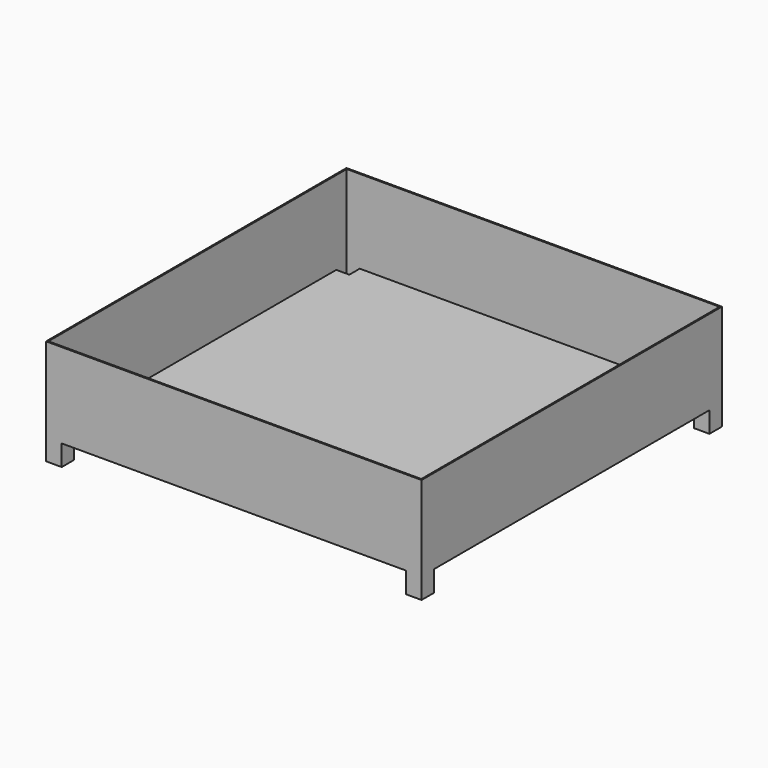
from build123d import *

# Parameters (mm, degrees)
F0_W     = 914.4
F0_H     = 914.4
F1_DEPTH = 3.175
F2_W     = 914.4
F2_H     = 914.4
F2_W_2   = 908.05
F2_H_2   = 908.05
F3_DEPTH = 203.2
F4_W     = 38.1
F4_H     = 38.1
F5_DEPTH = 50.8
F6_T     = -3.175


with BuildPart() as f1:
    # F0 (on Top) → F1 (new body)
    with BuildSketch(Plane.XY):
        Rectangle(F0_W, F0_H)
    extrude(amount=F1_DEPTH)

    # F2 (on face) → F3 (join)
    with BuildSketch(Plane.XY.offset(3.175)):
        Rectangle(F2_W, F2_H)
        Rectangle(F2_W_2, F2_H_2, mode=Mode.SUBTRACT)
        Rectangle(F2_W_2, F2_H_2)
    extrude(amount=F3_DEPTH)

    # F4 (on face) → F5 (join)
    with BuildSketch(Plane(origin=(0, 0, 0), x_dir=(1, 0, 0), z_dir=(0, 0, -1))):
        with Locations((-438.15, -438.15)):
            Rectangle(F4_W, F4_H)
        with Locations((438.15, -438.15)):
            Rectangle(F4_W, F4_H)
        with Locations((438.15, 438.15)):
            Rectangle(F4_W, F4_H)
        with Locations((-438.15, 438.15)):
            Rectangle(F4_W, F4_H)
    extrude(amount=F5_DEPTH)

    # F6
    f6_openings = [f1.faces().sort_by_distance(p)[0] for p in [
        (0, 0, 206.375),
    ]]
    offset(amount=F6_T, openings=f6_openings, kind=Kind.INTERSECTION)


solid = f1.part
